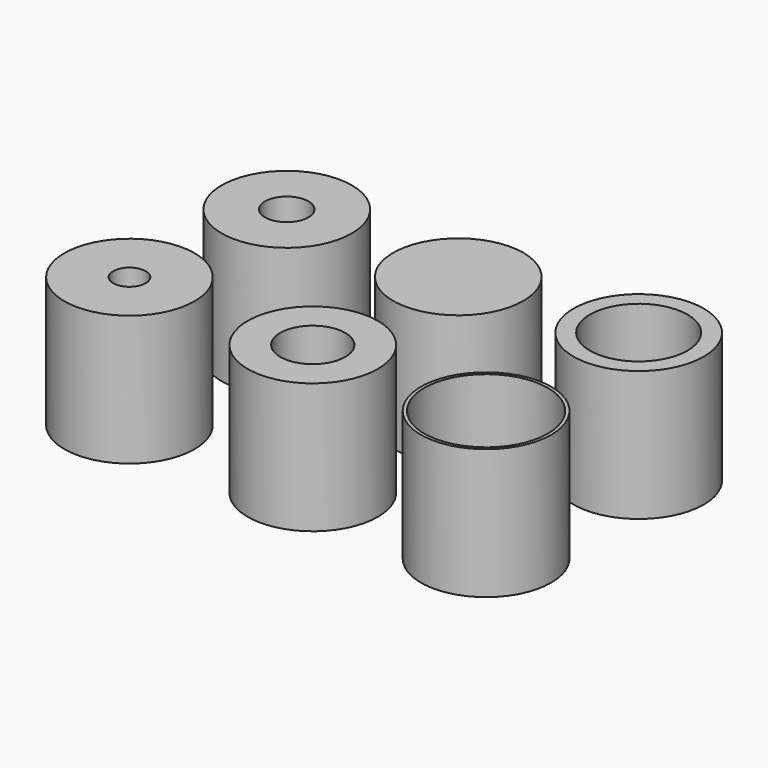
from build123d import *

# Parameters (mm, degrees)
F0_R     = 25
F0_R_2   = 8.333333
F0_R_3   = 18.75
F0_R_4   = 6.25
F0_R_5   = 12.5
F0_R_6   = 23.75
F1_DEPTH = 50


with BuildPart() as f1:
    # F0 (on Top) → F1 (new body)
    with BuildSketch(Plane.XY):
        with Locations((-98.352633, 34.950223)):
            Circle(F0_R)
        with Locations((-98.352633, 34.950223)):
            Circle(F0_R_2, mode=Mode.SUBTRACT)
        with Locations((-30.825168, 32.842603)):
            Circle(F0_R)
        with Locations((34.037288, 38.360734)):
            Circle(F0_R)
        with Locations((34.037288, 38.360734)):
            Circle(F0_R_3, mode=Mode.SUBTRACT)
        with Locations((-107.654028, -28.919389)):
            Circle(F0_R)
        with Locations((-107.654028, -28.919389)):
            Circle(F0_R_4, mode=Mode.SUBTRACT)
        with Locations((-37.273441, -28.919389)):
            Circle(F0_R)
        with Locations((-37.273441, -28.919389)):
            Circle(F0_R_5, mode=Mode.SUBTRACT)
        with Locations((30.006681, -29.849529)):
            Circle(F0_R)
        with Locations((30.006681, -29.849529)):
            Circle(F0_R_6, mode=Mode.SUBTRACT)
    extrude(amount=F1_DEPTH)


solid = f1.part
